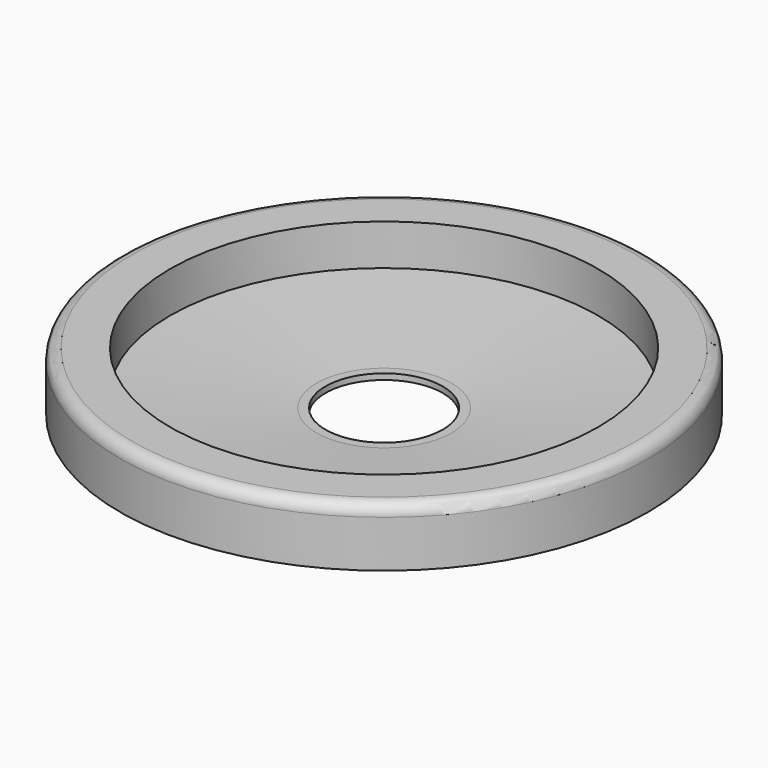
from build123d import *

# Parameters (mm, degrees)
F0_R     = 45
F0_R_2   = 10
F1_DEPTH = 10
F2_R     = 36.5
F3_DEPTH = 9
F4_SIZE2 = 2
F4_SIZE  = 25
F5_R     = 2


with BuildPart() as f1:
    # F0 (on Top) → F1 (new body)
    with BuildSketch(Plane.XY):
        Circle(F0_R)
        Circle(F0_R_2, mode=Mode.SUBTRACT)
    extrude(amount=F1_DEPTH)

    # F2 (on face) → F3 (cut)
    with BuildSketch(Plane.XY.offset(10)):
        Circle(F2_R)
    extrude(amount=-F3_DEPTH, mode=Mode.SUBTRACT)

    # F4
    f4_edges = [f1.edges().sort_by_distance(p)[0] for p in [
        (-36.5, 0, 1),
    ]]
    f4_side = f1.faces().sort_by_distance((-35.467624, 0, 1))[0]
    chamfer(f4_edges, length=F4_SIZE, length2=F4_SIZE2, reference=f4_side)

    # F5
    f5_edges = [f1.edges().sort_by_distance(p)[0] for p in [
        (-45, 0, 10),
    ]]
    fillet(f5_edges, radius=F5_R)


solid = f1.part
